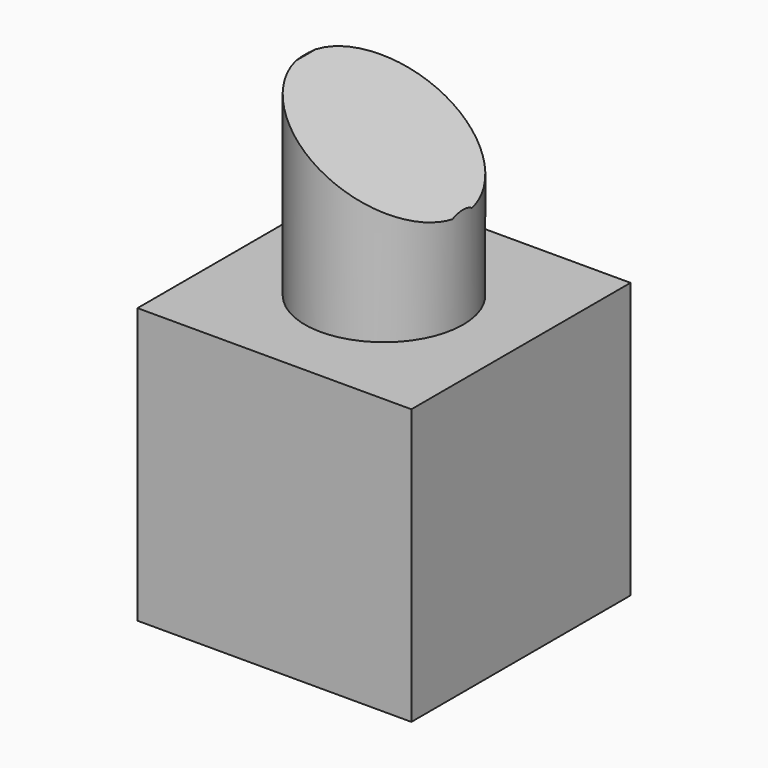
from build123d import *

# Parameters (mm, degrees)
F0_W     = 50.8
F0_H     = 50.8
F1_DEPTH = 51.054
F2_R     = 14.677171
F3_DEPTH = 43.688
F5_DEPTH = 25.4
F6_DEPTH = 25.4


with BuildPart() as f1:
    # F0 (on Top) → F1 (new body)
    with BuildSketch(Plane.XY):
        Rectangle(F0_W, F0_H)
    extrude(amount=F1_DEPTH)

    # F2 (on face) → F3 (join)
    with BuildSketch(Plane.XY.offset(51.054)):
        Circle(F2_R)
    extrude(amount=F3_DEPTH)

    # F4 (on Front) → F5 (cut)
    with BuildSketch(Plane.XZ):
        Polygon((-17.87798, 85.614286), (-14.499731, 85.614286), (14.499732, 69.13732), (21.090519, 95.280774), (-17.35574, 97.038314), align=None)
    extrude(amount=F5_DEPTH, mode=Mode.SUBTRACT)

    # F4 (on Front) → F6 (cut)
    with BuildSketch(Plane.XZ):
        Polygon((-17.87798, 85.614286), (-14.499731, 85.614286), (14.499732, 69.13732), (21.090519, 95.280774), (-17.35574, 97.038314), align=None)
    extrude(amount=-F6_DEPTH, mode=Mode.SUBTRACT)


solid = f1.part
